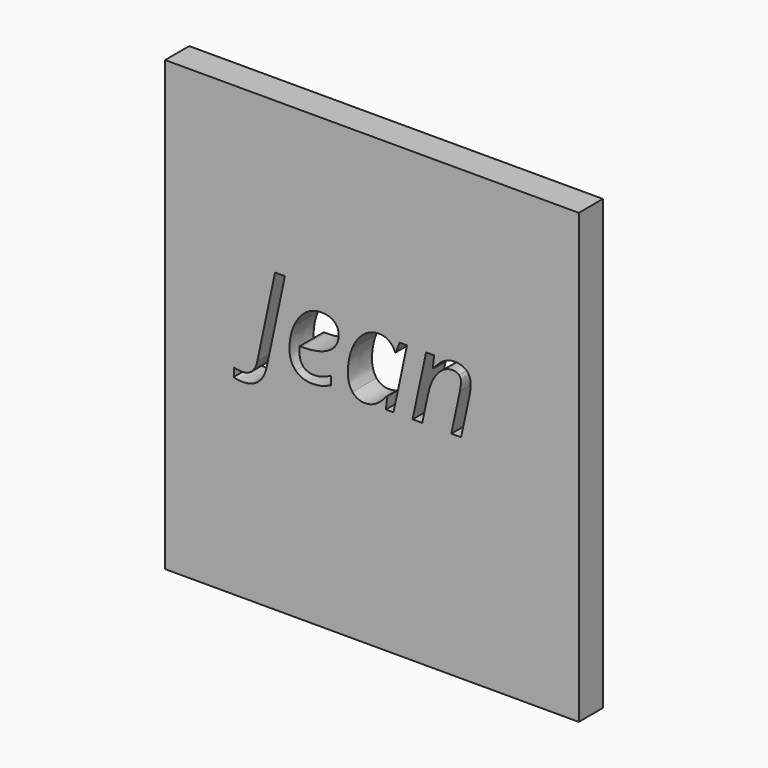
from build123d import *

# Parameters (mm, degrees)
F0_W     = 68.5800015926
F0_H     = 74.2950029671
F1_DEPTH = 5


with BuildPart() as f1:
    # F0 (on Front) → F1 (new body)
    with BuildSketch(Plane.XZ):
        with Locations((-0.6015785038, -5.2638160996)):
            Rectangle(F0_W, F0_H)
        with BuildLine():
            add(Edge.make_bspline(
                [(-17.999325617, -7.2772391204), (-18.7571088854, -10.9096900915), (-22.0459496295, -10.9096900915)],
                knots=[0, 0, 0, 1, 1, 1], degree=2))
            add(Edge.make_bspline(
                [(-22.0459496295, -10.9096900915), (-23.0522367228, -10.9096900915), (-23.5124289911, -10.670390112)],
                knots=[0, 0, 0, 1, 1, 1], degree=2))
            Line((-23.5124289911, -10.670390112), (-23.4541379705, -9.262201771))
            add(Edge.make_bspline(
                [(-23.4541379705, -9.262201771), (-22.7945290526, -9.4524145752), (-22.0643573202, -9.4524145752)],
                knots=[0, 0, 0, 1, 1, 1], degree=2))
            add(Edge.make_bspline(
                [(-22.0643573202, -9.4524145752), (-21.1071574022, -9.4524145752), (-20.4782279689, -8.8541646264)],
                knots=[0, 0, 0, 1, 1, 1], degree=2))
            add(Edge.make_bspline(
                [(-20.4782279689, -8.8541646264), (-19.8492985355, -8.2559146776), (-19.609998556, -7.1023660585)],
                knots=[0, 0, 0, 1, 1, 1], degree=2))
            Line((-19.609998556, -7.1023660585), (-16.6678359874, 6.7985083924))
            Line((-16.6678359874, 6.7985083924), (-15.0356874092, 6.7985083924))
            Line((-15.0356874092, 6.7985083924), (-17.999325617, -7.2772391204))
        make_face(mode=Mode.SUBTRACT)
        with BuildLine():
            add(Edge.make_bspline(
                [(-8.9703533131, -7.2434916874), (-9.6606417155, -7.4122288524), (-10.4920557469, -7.4122288524)],
                knots=[0, 0, 0, 1, 1, 1], degree=2))
            add(Edge.make_bspline(
                [(-10.4920557469, -7.4122288524), (-12.2561261087, -7.4122288524), (-13.2639471763, -6.3660584292)],
                knots=[0, 0, 0, 1, 1, 1], degree=2))
            add(Edge.make_bspline(
                [(-13.2639471763, -6.3660584292), (-14.2717682438, -5.3198880059), (-14.2717682438, -3.4699150874)],
                knots=[0, 0, 0, 1, 1, 1], degree=2))
            add(Edge.make_bspline(
                [(-14.2717682438, -3.4699150874), (-14.2717682438, -1.6690293442), (-13.5569362537, -0.0138711525)],
                knots=[0, 0, 0, 1, 1, 1], degree=2))
            add(Edge.make_bspline(
                [(-13.5569362537, -0.0138711525), (-12.8421042637, 1.6412870391), (-11.6624780826, 2.5616715757)],
                knots=[0, 0, 0, 1, 1, 1], degree=2))
            add(Edge.make_bspline(
                [(-11.6624780826, 2.5616715757), (-10.4828519015, 3.4820561123), (-9.0654597152, 3.4820561123)],
                knots=[0, 0, 0, 1, 1, 1], degree=2))
            add(Edge.make_bspline(
                [(-9.0654597152, 3.4820561123), (-7.5989803536, 3.4820561123), (-6.8596047759, 2.8439228336)],
                knots=[0, 0, 0, 1, 1, 1], degree=2))
            add(Edge.make_bspline(
                [(-6.8596047759, 2.8439228336), (-6.1202291981, 2.2057895549), (-6.1202291981, 1.0645127295)],
                knots=[0, 0, 0, 1, 1, 1], degree=2))
            add(Edge.make_bspline(
                [(-6.1202291981, 1.0645127295), (-6.1202291981, -0.6596743024), (-7.7124944464, -1.6429517823)],
                knots=[0, 0, 0, 1, 1, 1], degree=2))
            add(Edge.make_bspline(
                [(-7.7124944464, -1.6429517823), (-9.3047596947, -2.6262292622), (-12.2683979025, -2.6262292622)],
                knots=[0, 0, 0, 1, 1, 1], degree=2))
            Line((-12.2683979025, -2.6262292622), (-12.5843965934, -2.6262292622))
            Line((-12.5843965934, -2.6262292622), (-12.6212119749, -3.393216376))
            add(Edge.make_bspline(
                [(-12.6212119749, -3.393216376), (-12.6212119749, -4.6480072942), (-12.0321658715, -5.353635439)],
                knots=[0, 0, 0, 1, 1, 1], degree=2))
            add(Edge.make_bspline(
                [(-12.0321658715, -5.353635439), (-11.443119768, -6.0592635837), (-10.2067365406, -6.0592635837)],
                knots=[0, 0, 0, 1, 1, 1], degree=2))
            add(Edge.make_bspline(
                [(-10.2067365406, -6.0592635837), (-9.6023506949, -6.0592635837), (-8.9642174162, -5.8859244959)],
                knots=[0, 0, 0, 1, 1, 1], degree=2))
            add(Edge.make_bspline(
                [(-8.9642174162, -5.8859244959), (-8.3260841375, -5.7125854082), (-7.3780880648, -5.2523931399)],
                knots=[0, 0, 0, 1, 1, 1], degree=2))
            Line((-7.3780880648, -5.2523931399), (-7.3780880648, -6.654445584))
            add(Edge.make_bspline(
                [(-7.3780880648, -6.654445584), (-8.2800649107, -7.0747545224), (-8.9703533131, -7.2434916874)],
                knots=[0, 0, 0, 1, 1, 1], degree=2))
        make_face(mode=Mode.SUBTRACT)
        with BuildLine():
            add(Edge.make_bspline(
                [(-2.029119933, 2.5125844004), (-0.8310860612, 3.4820561123), (0.5985779189, 3.4820561123)],
                knots=[0, 0, 0, 1, 1, 1], degree=2))
            add(Edge.make_bspline(
                [(0.5985779189, 3.4820561123), (1.4790791256, 3.4820561123), (2.169367528, 3.0065241017)],
                knots=[0, 0, 0, 1, 1, 1], degree=2))
            add(Edge.make_bspline(
                [(2.169367528, 3.0065241017), (2.8596559305, 2.5309920911), (3.2431494874, 1.6412870391)],
                knots=[0, 0, 0, 1, 1, 1], degree=2))
            Line((3.2431494874, 1.6412870391), (3.3505276833, 1.6412870391))
            Line((3.3505276833, 1.6412870391), (3.9917289105, 3.2887753596))
            Line((3.9917289105, 3.2887753596), (5.2097044472, 3.2887753596))
            Line((5.2097044472, 3.2887753596), (2.9762379718, -7.2189480998))
            Line((2.9762379718, -7.2189480998), (1.6999714144, -7.2189480998))
            Line((1.6999714144, -7.2189480998), (1.9515431877, -5.2155777585))
            Line((1.9515431877, -5.2155777585), (1.8748444763, -5.2155777585))
            add(Edge.make_bspline(
                [(1.8748444763, -5.2155777585), (0.1567933414, -7.4122288524), (-1.7422667524, -7.4122288524)],
                knots=[0, 0, 0, 1, 1, 1], degree=2))
            add(Edge.make_bspline(
                [(-1.7422667524, -7.4122288524), (-3.073756382, -7.4122288524), (-3.8315396505, -6.4626988055)],
                knots=[0, 0, 0, 1, 1, 1], degree=2))
            add(Edge.make_bspline(
                [(-3.8315396505, -6.4626988055), (-4.5893229189, -5.5131687586), (-4.5893229189, -3.8626124897)],
                knots=[0, 0, 0, 1, 1, 1], degree=2))
            add(Edge.make_bspline(
                [(-4.5893229189, -3.8626124897), (-4.5893229189, -1.8684459938), (-3.9082383619, -0.1626666526)],
                knots=[0, 0, 0, 1, 1, 1], degree=2))
            add(Edge.make_bspline(
                [(-3.9082383619, -0.1626666526), (-3.2271538048, 1.5431126885), (-2.029119933, 2.5125844004)],
                knots=[0, 0, 0, 1, 1, 1], degree=2))
        make_face(mode=Mode.SUBTRACT)
        with BuildLine():
            Line((14.1834536789, -7.2189480998), (12.5543730492, -7.2189480998))
            Line((12.5543730492, -7.2189480998), (13.974833184, -0.582975591))
            add(Edge.make_bspline(
                [(13.974833184, -0.582975591), (14.1650459882, 0.414107657), (14.1650459882, 0.7976012139)],
                knots=[0, 0, 0, 1, 1, 1], degree=2))
            add(Edge.make_bspline(
                [(14.1650459882, 0.7976012139), (14.1650459882, 1.3989191111), (13.8245037097, 1.7640049773)],
                knots=[0, 0, 0, 1, 1, 1], degree=2))
            add(Edge.make_bspline(
                [(13.8245037097, 1.7640049773), (13.4839614311, 2.1290908435), (12.7384499565, 2.1290908435)],
                knots=[0, 0, 0, 1, 1, 1], degree=2))
            add(Edge.make_bspline(
                [(12.7384499565, 2.1290908435), (11.8824923375, 2.1290908435), (11.0725539453, 1.5538505081)],
                knots=[0, 0, 0, 1, 1, 1], degree=2))
            add(Edge.make_bspline(
                [(11.0725539453, 1.5538505081), (10.2626155531, 0.9786101728), (9.6444239393, -0.0859679412)],
                knots=[0, 0, 0, 1, 1, 1], degree=2))
            add(Edge.make_bspline(
                [(9.6444239393, -0.0859679412), (9.0262323256, -1.1505460552), (8.7102336347, -2.6661125921)],
                knots=[0, 0, 0, 1, 1, 1], degree=2))
            Line((8.7102336347, -2.6661125921), (7.7407619228, -7.2189480998))
            Line((7.7407619228, -7.2189480998), (6.1300889838, -7.2189480998))
            Line((6.1300889838, -7.2189480998), (8.3758272531, 3.2887753596))
            Line((8.3758272531, 3.2887753596), (9.7073168827, 3.2887753596))
            Line((9.7073168827, 3.2887753596), (9.4956284393, 1.3436960389))
            Line((9.4956284393, 1.3436960389), (9.5938027898, 1.3436960389))
            add(Edge.make_bspline(
                [(9.5938027898, 1.3436960389), (10.5141873264, 2.5125844004), (11.3716789197, 2.9973202563)],
                knots=[0, 0, 0, 1, 1, 1], degree=2))
            add(Edge.make_bspline(
                [(11.3716789197, 2.9973202563), (12.2291705129, 3.4820561123), (13.1495550495, 3.4820561123)],
                knots=[0, 0, 0, 1, 1, 1], degree=2))
            add(Edge.make_bspline(
                [(13.1495550495, 3.4820561123), (14.3675305862, 3.4820561123), (15.0716247567, 2.8147773232)],
                knots=[0, 0, 0, 1, 1, 1], degree=2))
            add(Edge.make_bspline(
                [(15.0716247567, 2.8147773232), (15.7757189272, 2.1474985342), (15.7757189272, 0.9509986367)],
                knots=[0, 0, 0, 1, 1, 1], degree=2))
            add(Edge.make_bspline(
                [(15.7757189272, 0.9509986367), (15.7757189272, 0.1932153682), (15.5548266384, -0.7762563437)],
                knots=[0, 0, 0, 1, 1, 1], degree=2))
            Line((15.5548266384, -0.7762563437), (14.1834536789, -7.2189480998))
        make_face(mode=Mode.SUBTRACT)
    extrude(amount=F1_DEPTH)


solid = f1.part
